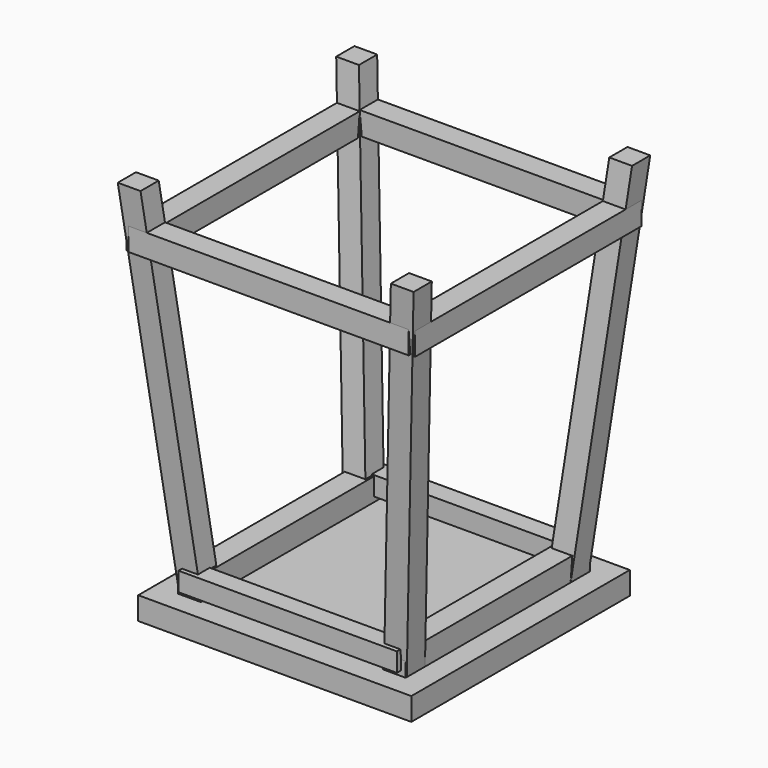
from build123d import *

# Parameters (mm, degrees)
F0_W      = 60
F0_H      = 60
F0_W_2    = 5
F0_H_2    = 5
F3_DEPTH  = 5
F2_W      = 5
F2_H      = 5
F7_W      = 5
F7_H      = 5
F8_DEPTH  = 25.3
F10_W     = 5
F10_H     = 5
F11_DEPTH = 30.8
F10_W_2   = 4.2065531015
F10_H_2   = 4.157690797
F13_DEPTH = 24
F15_W     = 5
F15_H     = 5
F16_DEPTH = 31.1


with BuildPart() as f3:
    # F0 (on Top) → F3 (new body)
    with BuildSketch(Plane.XY):
        Rectangle(F0_W, F0_H)
        with Locations((-22.5, -22.5)):
            Rectangle(F0_W_2, F0_H_2, mode=Mode.SUBTRACT)
        with Locations((22.5, -22.5)):
            Rectangle(F0_W_2, F0_H_2, mode=Mode.SUBTRACT)
        with Locations((-22.5, 22.5)):
            Rectangle(F0_W_2, F0_H_2, mode=Mode.SUBTRACT)
        with Locations((22.5, 22.5)):
            Rectangle(F0_W_2, F0_H_2, mode=Mode.SUBTRACT)
        with Locations((22.5, 22.5)):
            Rectangle(F0_W_2, F0_H_2)
        with Locations((22.5, -22.5)):
            Rectangle(F0_W_2, F0_H_2)
        with Locations((-22.5, -22.5)):
            Rectangle(F0_W_2, F0_H_2)
        with Locations((-22.5, 22.5)):
            Rectangle(F0_W_2, F0_H_2)
    extrude(amount=-F3_DEPTH)


with BuildPart() as f4:
    # F2 (on offset) → F4 section 0
    with BuildSketch(Plane.XY.offset(80)):
        with Locations((-30, -30)):
            Rectangle(F2_W, F2_H)
    # F0 (on Top) → F4 section 1
    with BuildSketch(Plane.XY):
        with Locations((-22.5, -22.5)):
            Rectangle(F0_W_2, F0_H_2)
    loft()


with BuildPart() as f5_1:
    # F5: instance of F4
    add(f4.part.mirror(Plane.XZ))


with BuildPart() as f6_1:
    # F6: instance of F5_1
    add(f5_1.part.mirror(Plane.YZ))


with BuildPart() as f6_2:
    # F6: instance of F4
    add(f4.part.mirror(Plane.YZ))


with BuildPart() as f8:
    # F7 (on Front) → F8 (new body, symmetric)
    with BuildSketch(Plane.XZ):
        with Locations((-22.5, 2.5)):
            Rectangle(F7_W, F7_H)
    extrude(amount=F8_DEPTH, both=True)


with BuildPart() as f9_1:
    # F9: instance of F8
    add(f8.part.mirror(Plane.YZ))


with BuildPart() as f11:
    # F10 (on Right) → F11 (new body, symmetric)
    with BuildSketch(Plane.YZ):
        with Locations((-29.2368422557, 69.3596507278)):
            Rectangle(F10_W, F10_H)
    extrude(amount=F11_DEPTH, both=True)


with BuildPart() as f12_1:
    # F12: instance of F11
    add(f11.part.mirror(Plane.XZ))


with BuildPart() as f13:
    # F10 (on Right) → F13 (new body, symmetric)
    with BuildSketch(Plane.YZ):
        with Locations((-24.3592057377, 3.1782335136)):
            Rectangle(F10_W_2, F10_H_2)
    extrude(amount=F13_DEPTH, both=True)


with BuildPart() as f14_1:
    # F14: instance of F13
    add(f13.part.mirror(Plane.XZ))


with BuildPart() as f16:
    # F15 (on Front) → F16 (new body, symmetric)
    with BuildSketch(Plane.XZ):
        with Locations((-29.2155756838, 69.1328072941)):
            Rectangle(F15_W, F15_H)
    extrude(amount=F16_DEPTH, both=True)


with BuildPart() as f17_1:
    # F17: instance of F16
    add(f16.part.mirror(Plane.YZ))


solid = Compound([f3.part, f4.part, f5_1.part, f6_1.part, f6_2.part, f8.part, f9_1.part, f11.part, f12_1.part, f13.part, f14_1.part, f16.part, f17_1.part])
